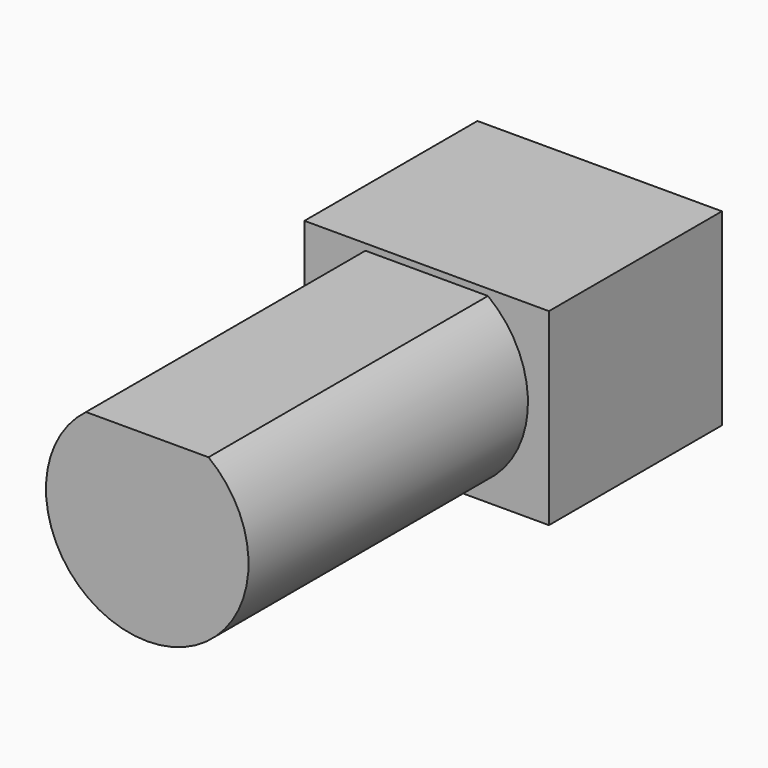
from build123d import *

# Parameters (mm, degrees)
F0_W     = 14.7
F0_H     = 13
F1_DEPTH = 11.33
F3_DEPTH = 34


with BuildPart() as f1:
    # F0 (on Top) → F1 (new body)
    with BuildSketch(Plane.XY):
        with Locations((-21.202724, 14.082852)):
            Rectangle(F0_W, F0_H)
    extrude(amount=F1_DEPTH)

    # F2 (on face) → F3 (join)
    with BuildSketch(Plane(origin=(0, 20.582852, 0), x_dir=(-1, 0, 0), z_dir=(0, 1, 0))):
        with BuildLine():
            Line((24.885875, 10.94), (17.519573, 10.94))
            ThreePointArc((17.519573, 10.94), (15.431043, 4.146858), (21.202724, 0))
            ThreePointArc((21.202724, 0), (26.974405, 4.146858), (24.885875, 10.94))
        make_face()
    extrude(amount=-F3_DEPTH)


solid = f1.part
